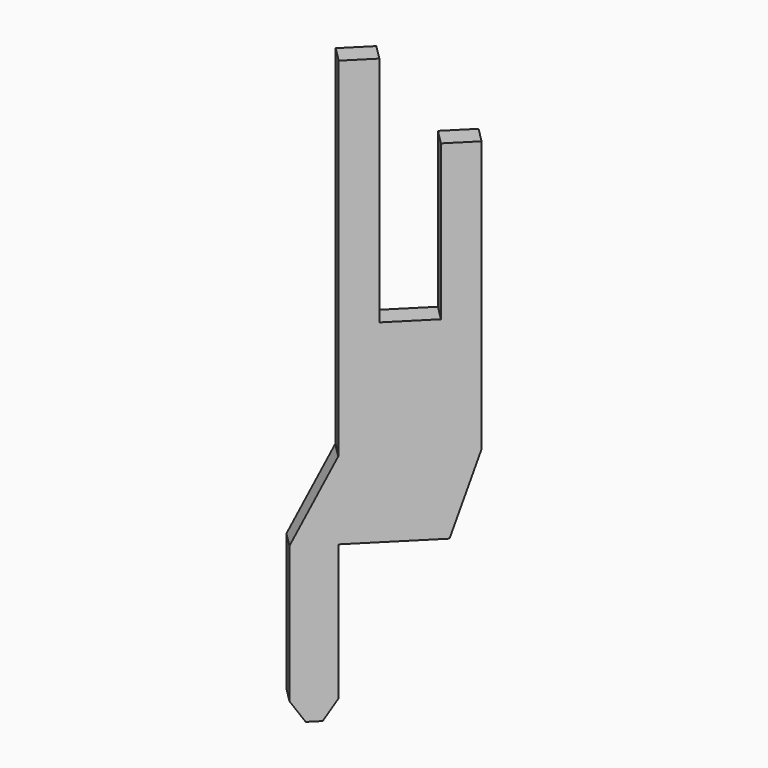
from build123d import *

# Parameters (mm, degrees)
BOX071_W                = 2.9
BOX071_H                = 0.55
BOX071_DEPTH            = 15
BOX072_W                = 1.25
BOX072_H                = 0.55
BOX072_DEPTH            = 6
BOX073_W                = 1.1
BOX073_H                = 0.6
BOX073_DEPTH            = 2
BOX075_W                = 1
BOX075_H                = 0.55
BOX075_DEPTH            = 6
BOX074_W                = 3
BOX074_H                = 0.55
BOX074_DEPTH            = 4
CHAMFER034_SIZE2        = 0.65
CHAMFER034_SIZE         = 2
CHAMFER035_ANGLE        = 33
CHAMFER035_SIZE         = 0.5
CHAMFER037_ANGLE        = 56
CHAMFER037_SIZE         = 0.33
CHAMFER036_ANGLE        = 26.565
CHAMFER036_SIZE         = 1.98
BODY029_PLACEMENT_ANGLE = 45


with BuildPart() as part:
    # Box071 → Box071 (join)
    with BuildSketch(Plane(origin=(-4.95, -0.275, 0), x_dir=(1, 0, 0), z_dir=(0, 0, 1))):
        with Locations((1.45, 0.275)):
            Rectangle(BOX071_W, BOX071_H)
    extrude(amount=BOX071_DEPTH)

    # Box072 → Box072 (cut)
    with BuildSketch(Plane(origin=(-4.125, -0.275, 9), x_dir=(1, 0, 0), z_dir=(0, 0, 1))):
        with Locations((0.625, 0.275)):
            Rectangle(BOX072_W, BOX072_H)
    extrude(amount=BOX072_DEPTH, mode=Mode.SUBTRACT)

    # Box073 → Box073 (cut)
    with BuildSketch(Plane(origin=(-3, -0.3, 13), x_dir=(1, 0, 0), z_dir=(0, 0, 1))):
        with Locations((0.55, 0.3)):
            Rectangle(BOX073_W, BOX073_H)
    extrude(amount=BOX073_DEPTH, mode=Mode.SUBTRACT)

    # Box075 → Box075 (join)
    with BuildSketch(Plane(origin=(-5.95, -0.275, 0), x_dir=(1, 0, 0), z_dir=(0, 0, 1))):
        with Locations((0.5, 0.275)):
            Rectangle(BOX075_W, BOX075_H)
    extrude(amount=BOX075_DEPTH)

    # Box074 → Box074 (cut)
    with BuildSketch(Plane(origin=(-4.95, 0.275, 4), x_dir=(1, 0, 0), z_dir=(0, 0, -1))):
        with Locations((1.5, 0.275)):
            Rectangle(BOX074_W, BOX074_H)
    extrude(amount=BOX074_DEPTH, mode=Mode.SUBTRACT)

    # Chamfer034
    chamfer034_edges = [part.edges().sort_by_distance(p)[0] for p in [
        (-2.05, 0, 4),
    ]]
    chamfer034_side = part.faces().sort_by_distance((-2.05, 0, 8.5))[0]
    chamfer(chamfer034_edges, length=CHAMFER034_SIZE, length2=CHAMFER034_SIZE2, reference=chamfer034_side)

    # Chamfer035
    chamfer035_edges = [part.edges().sort_by_distance(p)[0] for p in [
        (-4.95, 0, 0),
    ]]
    chamfer035_side = part.faces().sort_by_distance((-4.95, 0, 2))[0]
    chamfer(chamfer035_edges, length=CHAMFER035_SIZE, angle=CHAMFER035_ANGLE, reference=chamfer035_side)

    # Chamfer037
    chamfer037_edges = [part.edges().sort_by_distance(p)[0] for p in [
        (-5.95, 0, 0),
    ]]
    chamfer037_side = part.faces().sort_by_distance((-5.612352, 0, 0))[0]
    chamfer(chamfer037_edges, length=CHAMFER037_SIZE, angle=CHAMFER037_ANGLE, reference=chamfer037_side)

    # Chamfer036
    chamfer036_edges = [part.edges().sort_by_distance(p)[0] for p in [
        (-5.95, 0, 6),
    ]]
    chamfer036_side = part.faces().sort_by_distance((-5.95, 0, 3.244623))[0]
    chamfer(chamfer036_edges, length=CHAMFER036_SIZE, angle=CHAMFER036_ANGLE, reference=chamfer036_side)


with BuildPart() as part_1:
    # Body029 placement: moved
    add(part.part.moved(Location((0, 0, -4))).rotate(Axis((0, 0, -4), (0, 0, 1)), BODY029_PLACEMENT_ANGLE))


solid = part_1.part
